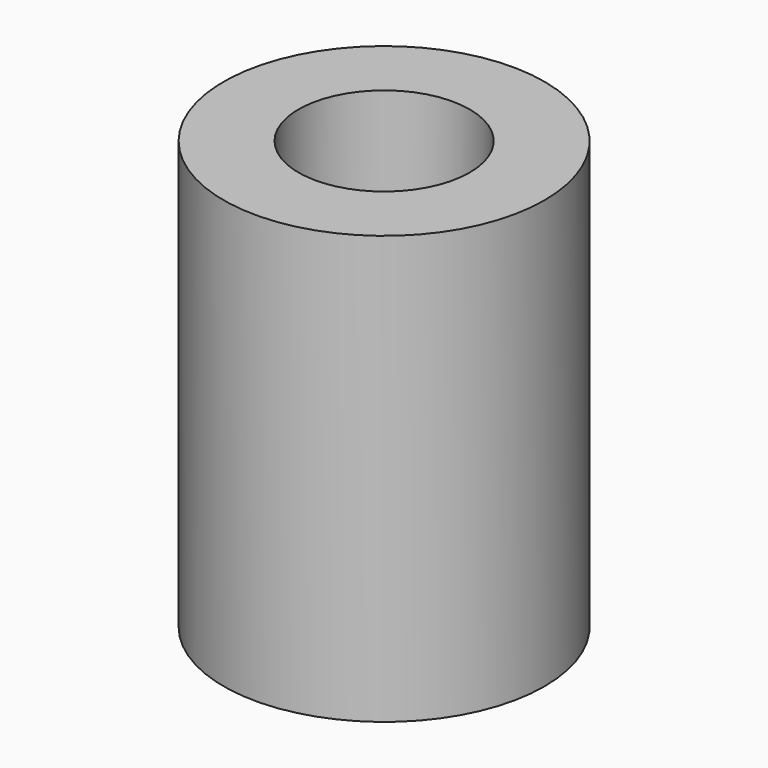
from build123d import *

# Parameters (mm, degrees)
CYLINDER001_R     = 1.6
CYLINDER001_DEPTH = 10
CYLINDER_R        = 3
CYLINDER_DEPTH    = 8


with BuildPart() as cylinder001:
    # Cylinder001 → Cylinder001 (new body)
    with BuildSketch(Plane.XY.offset(-1)):
        Circle(CYLINDER001_R)
    extrude(amount=CYLINDER001_DEPTH)


with BuildPart() as cut:
    # Cylinder → Cylinder (new body)
    with BuildSketch(Plane.XY):
        Circle(CYLINDER_R)
    extrude(amount=CYLINDER_DEPTH)

    # Cut: cut Cylinder001
    add(cylinder001.part, mode=Mode.SUBTRACT)


solid = cut.part
